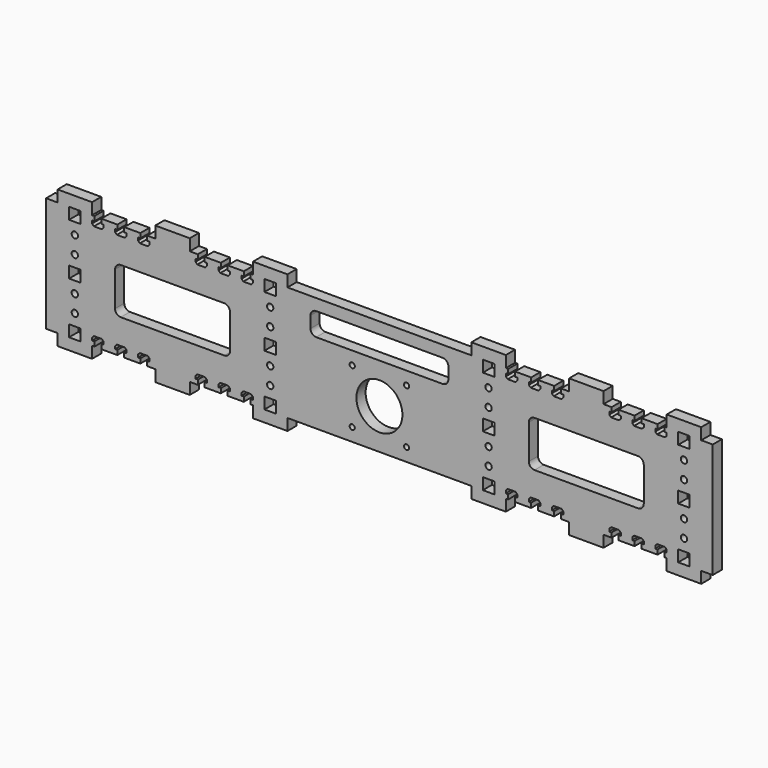
from build123d import *

# Parameters (mm, degrees)
F0_W     = 10
F0_H     = 10
F0_R     = 2.25
F0_R_2   = 2.75
F0_R_3   = 20
F1_DEPTH = 10


with BuildPart() as f1:
    # F0 (on Front) → F1 (new body)
    with BuildSketch(Plane.XZ):
        Polygon((-290, 50), (-290, -50), (-280, -50), (-280, -60), (-250, -60), (-250, -50), (-248, -50), (-248, -46), (-250, -46), (-250, -43.6), (-248.4, -42), (-245, -42), (-241.6, -42), (-240, -43.6), (-240, -46), (-242, -46), (-242, -50), (-228, -50), (-228, -46), (-230, -46), (-230, -43.6), (-228.4, -42), (-225, -42), (-221.6, -42), (-220, -43.6), (-220, -46), (-222, -46), (-222, -50), (-208, -50), (-208, -46), (-210, -46), (-210, -43.6), (-208.4, -42), (-205, -42), (-201.6, -42), (-200, -43.6), (-200, -46), (-202, -46), (-202, -50), (-195, -50), (-195, -60), (-180, -60), (-165, -60), (-165, -50), (-158, -50), (-158, -46), (-160, -46), (-160, -43.6), (-158.4, -42), (-155, -42), (-151.6, -42), (-150, -43.6), (-150, -46), (-152, -46), (-152, -50), (-138, -50), (-138, -46), (-140, -46), (-140, -43.6), (-138.4, -42), (-135, -42), (-131.6, -42), (-130, -43.6), (-130, -46), (-132, -46), (-132, -50), (-118, -50), (-118, -46), (-120, -46), (-120, -43.6), (-118.4, -42), (-115, -42), (-111.6, -42), (-110, -43.6), (-110, -46), (-112, -46), (-112, -50), (-110, -50), (-110, -60), (-80, -60), (-80, -50), (-70, -50), (0, -50), (70, -50), (80, -50), (80, -60), (110, -60), (110, -50), (112, -50), (112, -46), (110, -46), (110, -43.6), (111.6, -42), (115, -42), (118.4, -42), (120, -43.6), (120, -46), (118, -46), (118, -50), (132, -50), (132, -46), (130, -46), (130, -43.6), (131.6, -42), (135, -42), (138.4, -42), (140, -43.6), (140, -46), (138, -46), (138, -50), (152, -50), (152, -46), (150, -46), (150, -43.6), (151.6, -42), (155, -42), (158.4, -42), (160, -43.6), (160, -46), (158, -46), (158, -50), (165, -50), (165, -60), (180, -60), (195, -60), (195, -50), (202, -50), (202, -46), (200, -46), (200, -43.6), (201.6, -42), (205, -42), (208.4, -42), (210, -43.6), (210, -46), (208, -46), (208, -50), (222, -50), (222, -46), (220, -46), (220, -43.6), (221.6, -42), (225, -42), (228.4, -42), (230, -43.6), (230, -46), (228, -46), (228, -50), (242, -50), (242, -46), (240, -46), (240, -43.6), (241.6, -42), (245, -42), (248.4, -42), (250, -43.6), (250, -46), (248, -46), (248, -50), (250, -50), (250, -60), (280, -60), (280, -50), (290, -50), (290, 50), (280, 50), (280, 60), (250, 60), (250, 50), (248, 50), (248, 46), (250, 46), (250, 43.6), (248.4, 42), (245, 42), (241.6, 42), (240, 43.6), (240, 46), (242, 46), (242, 50), (228, 50), (228, 46), (230, 46), (230, 43.6), (228.4, 42), (225, 42), (221.6, 42), (220, 43.6), (220, 46), (222, 46), (222, 50), (208, 50), (208, 46), (210, 46), (210, 43.6), (208.4, 42), (205, 42), (201.6, 42), (200, 43.6), (200, 46), (202, 46), (202, 50), (195, 50), (195, 60), (180, 60), (165, 60), (165, 50), (158, 50), (158, 46), (160, 46), (160, 43.6), (158.4, 42), (155, 42), (151.6, 42), (150, 43.6), (150, 46), (152, 46), (152, 50), (138, 50), (138, 46), (140, 46), (140, 43.6), (138.4, 42), (135, 42), (131.6, 42), (130, 43.6), (130, 46), (132, 46), (132, 50), (118, 50), (118, 46), (120, 46), (120, 43.6), (118.4, 42), (115, 42), (111.6, 42), (110, 43.6), (110, 46), (112, 46), (112, 50), (110, 50), (110, 60), (80, 60), (80, 50), (70, 50), (0, 50), (-70, 50), (-80, 50), (-80, 60), (-110, 60), (-110, 50), (-112, 50), (-112, 46), (-110, 46), (-110, 43.6), (-111.6, 42), (-115, 42), (-118.4, 42), (-120, 43.6), (-120, 46), (-118, 46), (-118, 50), (-132, 50), (-132, 46), (-130, 46), (-130, 43.6), (-131.6, 42), (-135, 42), (-138.4, 42), (-140, 43.6), (-140, 46), (-138, 46), (-138, 50), (-152, 50), (-152, 46), (-150, 46), (-150, 43.6), (-151.6, 42), (-155, 42), (-158.4, 42), (-160, 43.6), (-160, 46), (-158, 46), (-158, 50), (-165, 50), (-165, 60), (-180, 60), (-195, 60), (-195, 50), (-202, 50), (-202, 46), (-200, 46), (-200, 43.6), (-201.6, 42), (-205, 42), (-208.4, 42), (-210, 43.6), (-210, 46), (-208, 46), (-208, 50), (-222, 50), (-222, 46), (-220, 46), (-220, 43.6), (-221.6, 42), (-225, 42), (-228.4, 42), (-230, 43.6), (-230, 46), (-228, 46), (-228, 50), (-242, 50), (-242, 46), (-240, 46), (-240, 43.6), (-241.6, 42), (-245, 42), (-248.4, 42), (-250, 43.6), (-250, 46), (-248, 46), (-248, 50), (-250, 50), (-250, 60), (-280, 60), (-280, 50), align=None)
        with Locations((-265, -45)):
            Rectangle(F0_W, F0_H, mode=Mode.SUBTRACT)
        with Locations((-95, -45)):
            Rectangle(F0_W, F0_H, mode=Mode.SUBTRACT)
        with Locations((-23.65, -38.65)):
            Circle(F0_R, mode=Mode.SUBTRACT)
        with Locations((-265, -30)):
            Circle(F0_R_2, mode=Mode.SUBTRACT)
        with Locations((-265, -15)):
            Circle(F0_R_2, mode=Mode.SUBTRACT)
        with Locations((-95, -30)):
            Circle(F0_R_2, mode=Mode.SUBTRACT)
        with Locations((-95, -15)):
            Circle(F0_R_2, mode=Mode.SUBTRACT)
        with Locations((23.65, -38.65)):
            Circle(F0_R, mode=Mode.SUBTRACT)
        with Locations((95, -45)):
            Rectangle(F0_W, F0_H, mode=Mode.SUBTRACT)
        with Locations((265, -45)):
            Rectangle(F0_W, F0_H, mode=Mode.SUBTRACT)
        with Locations((95, -30)):
            Circle(F0_R_2, mode=Mode.SUBTRACT)
        with Locations((0, -15)):
            Circle(F0_R_3, mode=Mode.SUBTRACT)
        with Locations((95, -15)):
            Circle(F0_R_2, mode=Mode.SUBTRACT)
        with Locations((265, -30)):
            Circle(F0_R_2, mode=Mode.SUBTRACT)
        with Locations((265, -15)):
            Circle(F0_R_2, mode=Mode.SUBTRACT)
        with Locations((-265, 0)):
            Rectangle(F0_W, F0_H, mode=Mode.SUBTRACT)
        with BuildLine():
            Line((-225, 20), (-135, 20))
            ThreePointArc((-135, 20), (-131.464466, 18.535534), (-130, 15))
            Line((-130, 15), (-130, -15))
            ThreePointArc((-130, -15), (-131.464466, -18.535534), (-135, -20))
            Line((-135, -20), (-225, -20))
            ThreePointArc((-225, -20), (-228.535534, -18.535534), (-230, -15))
            Line((-230, -15), (-230, 15))
            ThreePointArc((-230, 15), (-228.535534, 18.535534), (-225, 20))
        make_face(mode=Mode.SUBTRACT)
        with Locations((-265, 15)):
            Circle(F0_R_2, mode=Mode.SUBTRACT)
        with Locations((-95, 0)):
            Rectangle(F0_W, F0_H, mode=Mode.SUBTRACT)
        with Locations((-23.65, 8.65)):
            Circle(F0_R, mode=Mode.SUBTRACT)
        with Locations((-95, 15)):
            Circle(F0_R_2, mode=Mode.SUBTRACT)
        with Locations((-265, 30)):
            Circle(F0_R_2, mode=Mode.SUBTRACT)
        with Locations((-265, 45)):
            Rectangle(F0_W, F0_H, mode=Mode.SUBTRACT)
        with Locations((-95, 30)):
            Circle(F0_R_2, mode=Mode.SUBTRACT)
        with Locations((-95, 45)):
            Rectangle(F0_W, F0_H, mode=Mode.SUBTRACT)
        with Locations((23.65, 8.65)):
            Circle(F0_R, mode=Mode.SUBTRACT)
        with Locations((95, 0)):
            Rectangle(F0_W, F0_H, mode=Mode.SUBTRACT)
        with Locations((95, 15)):
            Circle(F0_R_2, mode=Mode.SUBTRACT)
        with BuildLine():
            Line((130, -15), (130, 15))
            ThreePointArc((130, 15), (131.464466, 18.535534), (135, 20))
            Line((135, 20), (225, 20))
            ThreePointArc((225, 20), (228.535534, 18.535534), (230, 15))
            Line((230, 15), (230, -15))
            ThreePointArc((230, -15), (228.535534, -18.535534), (225, -20))
            Line((225, -20), (135, -20))
            ThreePointArc((135, -20), (131.464466, -18.535534), (130, -15))
        make_face(mode=Mode.SUBTRACT)
        with Locations((265, 0)):
            Rectangle(F0_W, F0_H, mode=Mode.SUBTRACT)
        with Locations((265, 15)):
            Circle(F0_R_2, mode=Mode.SUBTRACT)
        with BuildLine():
            Line((-55, 40), (55, 40))
            ThreePointArc((55, 40), (58.535534, 38.535534), (60, 35))
            Line((60, 35), (60, 25))
            ThreePointArc((60, 25), (58.535534, 21.464466), (55, 20))
            Line((55, 20), (-55, 20))
            ThreePointArc((-55, 20), (-58.535534, 21.464466), (-60, 25))
            Line((-60, 25), (-60, 35))
            ThreePointArc((-60, 35), (-58.535534, 38.535534), (-55, 40))
        make_face(mode=Mode.SUBTRACT)
        with Locations((95, 30)):
            Circle(F0_R_2, mode=Mode.SUBTRACT)
        with Locations((95, 45)):
            Rectangle(F0_W, F0_H, mode=Mode.SUBTRACT)
        with Locations((265, 30)):
            Circle(F0_R_2, mode=Mode.SUBTRACT)
        with Locations((265, 45)):
            Rectangle(F0_W, F0_H, mode=Mode.SUBTRACT)
    extrude(amount=F1_DEPTH)


solid = f1.part
